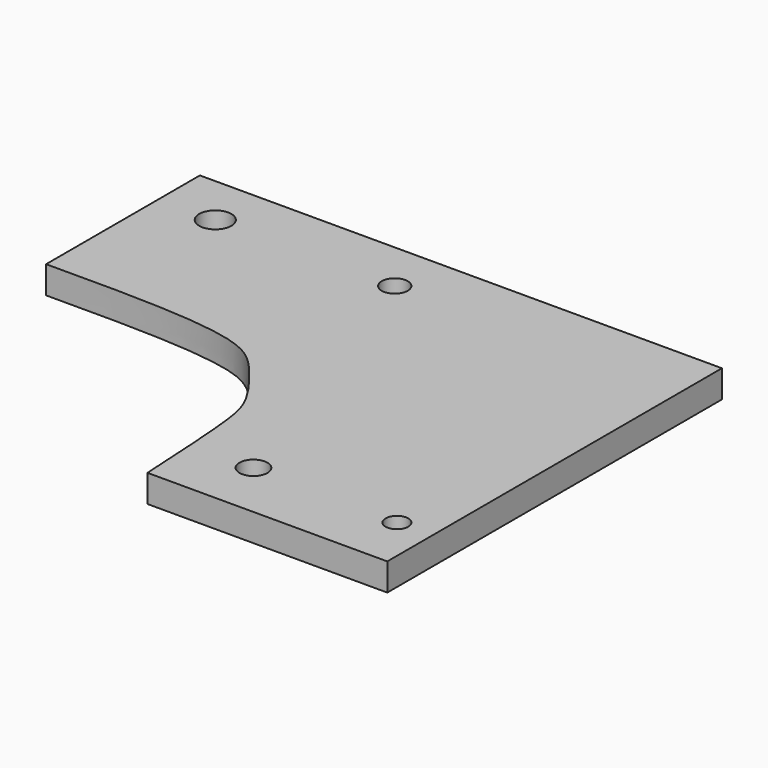
from build123d import *

# Parameters (mm, degrees)
F0_R     = 3.227705
F0_R_2   = 2.6202831703
F0_R_3   = 3.7211
F0_R_4   = 3.0099
F1_DEPTH = 6.35


with BuildPart() as f1:
    # F0 (on Top) → F1 (new body)
    with BuildSketch(Plane.XY):
        with BuildLine():
            Line((50.3533543698, 50.5695272586), (-70.2966456302, 50.5695272586))
            Line((-70.2966456302, 50.5695272586), (-70.2966456302, 6.1389088832))
            add(Edge.make_bspline(
                [(-70.2966456302, 6.1389088832), (-52.0441571305, 6.2243048177), (-24.7506450339, 6.3520000068), (-16.0268583665, -2.7376199674), (-8.2325781541, -12.9339469203), (-6.413955806, -21.4539728098), (-5.5948416135, -36.5589979729), (-5.0773202083, -46.1024461493)],
                knots=[0, 0, 0, 0, 0.3147391889, 0.4706392699, 0.6307003445, 0.7666741971, 1, 1, 1, 1], degree=3))
            Line((-5.0773202083, -46.1024461493), (50.3533543698, -46.1024461493))
            Line((50.3533543698, -46.1024461493), (50.3533543698, 50.5695272586))
        make_face()
        with Locations((8.6481217295, -32.6273292303)):
            Circle(F0_R, mode=Mode.SUBTRACT)
        with Locations((42.2276780009, -33.1594906747)):
            Circle(F0_R_2, mode=Mode.SUBTRACT)
        with Locations((-57.2580881417, 38.7286692858)):
            Circle(F0_R_3, mode=Mode.SUBTRACT)
        with Locations((-15.8467981964, 38.7890487909)):
            Circle(F0_R_4, mode=Mode.SUBTRACT)
    extrude(amount=F1_DEPTH)


solid = f1.part
